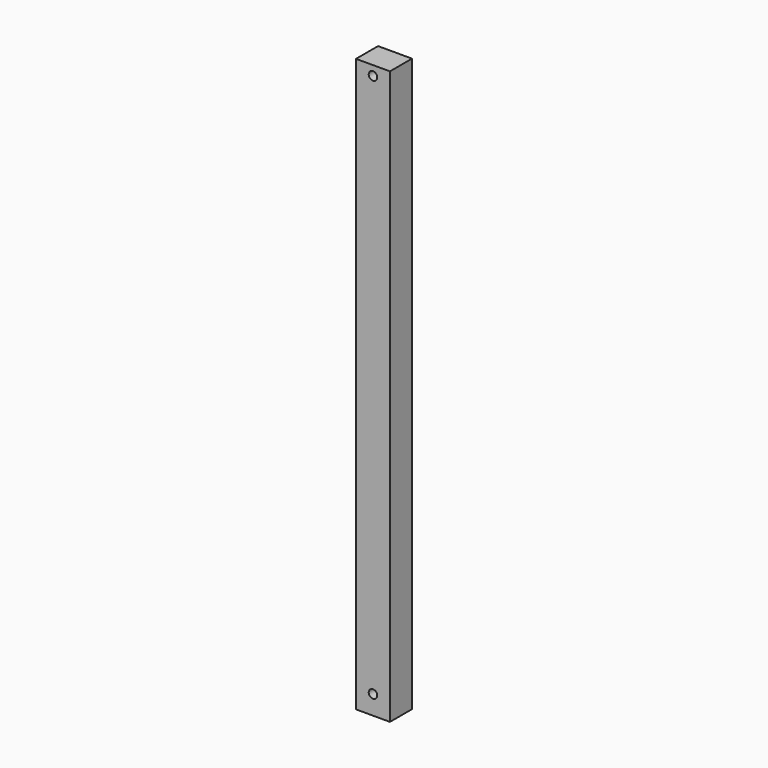
from build123d import *

# Parameters (mm, degrees)
F0_W     = 16
F0_H     = 270
F1_DEPTH = 13
F2_R     = 2
F3_DEPTH = 13
F5_DEPTH = 13


with BuildPart() as f1:
    # F0 (on Front) → F1 (new body)
    with BuildSketch(Plane.XZ):
        with Locations((-38.204761, 107.17144)):
            Rectangle(F0_W, F0_H)
    extrude(amount=F1_DEPTH)

    # F2 (on face) → F3 (cut)
    with BuildSketch(Plane.XZ.offset(13)):
        with Locations((-38.204761, -18.82856)):
            Circle(F2_R)
    extrude(amount=-F3_DEPTH, mode=Mode.SUBTRACT)

    # F4 (on face) → F5 (cut)
    with BuildSketch(Plane.XZ.offset(13)):
        with BuildLine():
            ThreePointArc((-40.204761, 237.67144), (-38.204761, 235.67144), (-36.204761, 237.67144))
            ThreePointArc((-36.204761, 237.67144), (-38.204761, 239.67144), (-40.204761, 237.67144))
        make_face()
    extrude(amount=-F5_DEPTH, mode=Mode.SUBTRACT)


solid = f1.part
